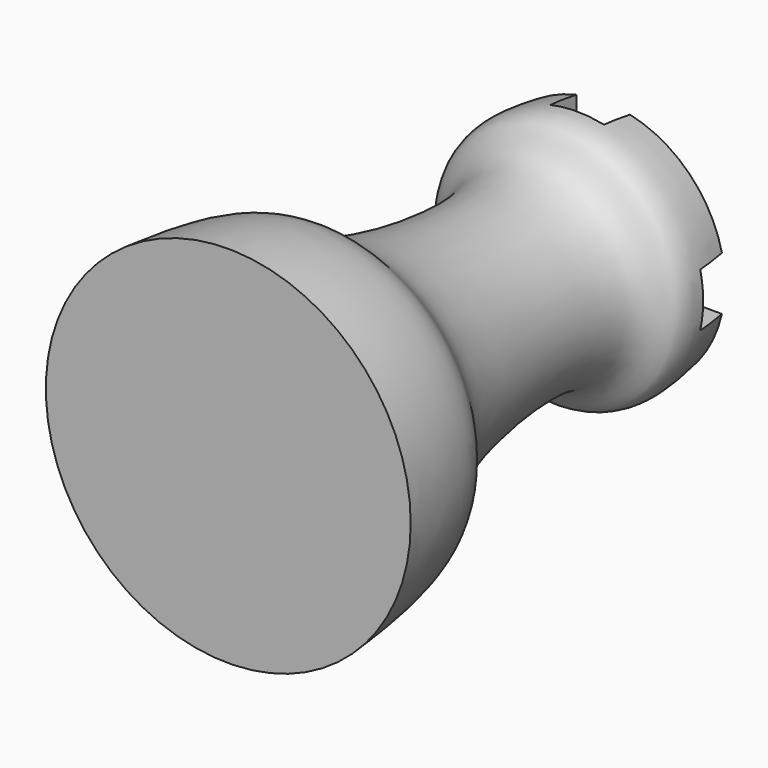
from build123d import *

# Parameters (mm, degrees)
F2_W     = 4.20624
F2_H     = 20.0195648662
F2_H_2   = 4.20624
F2_W_2   = 17.6414342363
F3_DEPTH = 2.54


with BuildPart() as f1:
    # F0 (on Top) → F1 (revolve)
    with BuildSketch(Plane.XY):
        with BuildLine():
            Line((0, 36.7317478065), (0, 0))
            Line((0, 0), (14.3002, 0))
            add(Edge.make_bspline(
                [(9.5422007305, 36.7317478065), (9.8377349923, 34.8905601939), (10.3712029618, 31.5670382058), (5.4519131165, 31.1307695275), (8.3582832439, 11.1967644856), (13.374842383, 9.3400085371), (13.964740637, 3.3859269715), (14.3002, 0)],
                knots=[0, 0, 0, 0, 0.1612494868, 0.2910709431, 0.6079020726, 0.7770243936, 1, 1, 1, 1], degree=3))
            Line((9.5422007305, 36.7317478065), (0, 36.7317478065))
        make_face()
    revolve(axis=Axis((0, 18.3658739032, 0), (0, 1, 0)))

    # F2 (on face) → F3 (cut)
    with BuildSketch(Plane(origin=(0, 36.7317478065, 0), x_dir=(-1, 0, 0), z_dir=(0, 1, 0))):
        with Locations((0, -12.1129024331)):
            Rectangle(F2_W, F2_H)
        Rectangle(F2_W, F2_H_2)
        with Locations((10.9238371181, 0)):
            Rectangle(F2_W_2, F2_H_2)
        with Locations((-10.9238371181, 0)):
            Rectangle(F2_W_2, F2_H_2)
        with Locations((0, 12.1129024331)):
            Rectangle(F2_W, F2_H)
    extrude(amount=-F3_DEPTH, mode=Mode.SUBTRACT)


solid = f1.part
